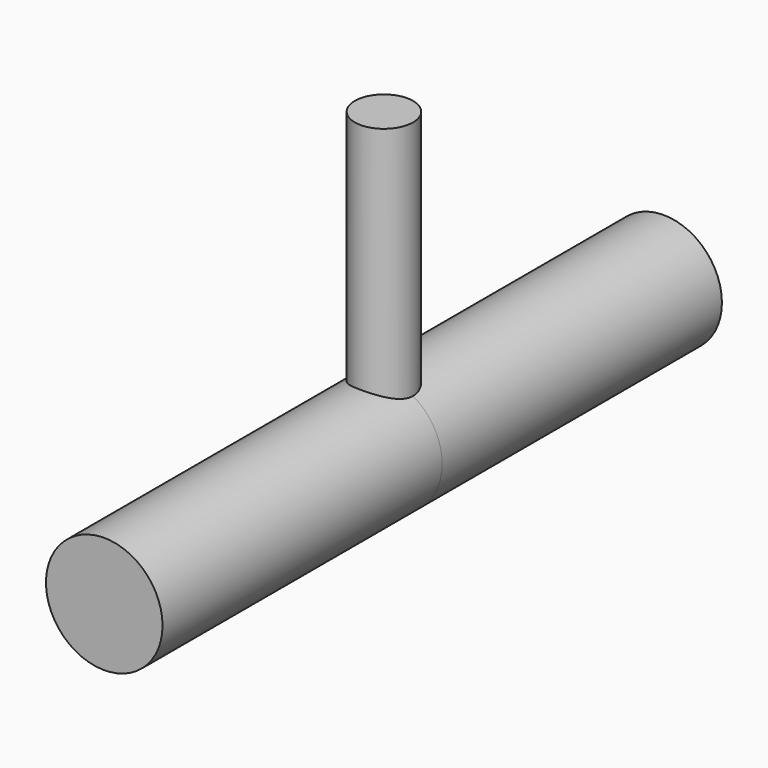
from build123d import *

# Parameters (mm, degrees)
F1_R     = 3.175
F2_DEPTH = 31.75
F0_R     = 6.35
F3_DEPTH = 38.1
F4_DEPTH = 38.1


with BuildPart() as f2:
    # F1 (on Top) → F2 (new body)
    with BuildSketch(Plane.XY):
        Circle(F1_R)
    extrude(amount=F2_DEPTH)

    # F0 (on Front) → F3 (join)
    with BuildSketch(Plane.XZ):
        Circle(F0_R)
    extrude(amount=F3_DEPTH)

    # F0 (on Front) → F4 (join)
    with BuildSketch(Plane.XZ):
        Circle(F0_R)
    extrude(amount=-F4_DEPTH)


solid = f2.part
